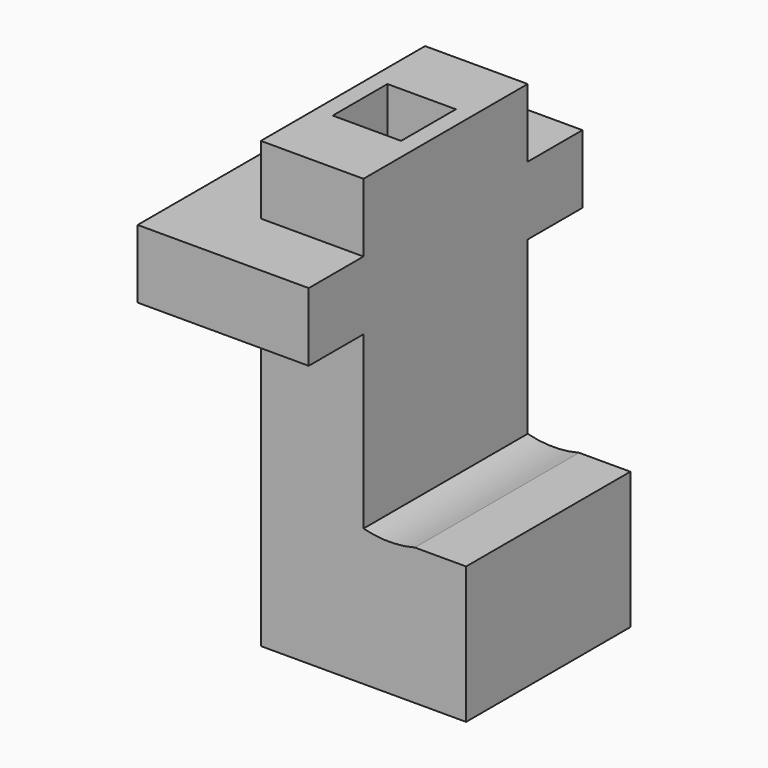
from build123d import *

# Parameters (mm, degrees)
F0_W      = 38.1
F0_H      = 76.2
F1_DEPTH  = 177.8
F2_W      = 76.2
F2_H      = 25.4
F3_DEPTH  = 25.4
F5_DEPTH  = 25.4
F7_DEPTH  = 25.4
F9_W      = 38.1
F9_H      = 76.2
F10_DEPTH = 25.4
F11_W     = 25.4
F11_H     = 25.4
F12_DEPTH = 228.6
F13_W     = 76.2
F13_H     = 50.8
F14_DEPTH = 38.1
F16_DEPTH = 228.6
F17_W     = 38.1
F17_H     = 76.2
F17_W_2   = 25.4
F17_H_2   = 25.4
F18_DEPTH = 38.1


with BuildPart() as f1:
    # F0 (on Top) → F1 (new body)
    with BuildSketch(Plane.XY):
        Rectangle(F0_W, F0_H)
    extrude(amount=F1_DEPTH)

    # F2 (on face) → F3 (join)
    with BuildSketch(Plane(origin=(-19.05, 0, 0), x_dir=(0, -1, 0), z_dir=(-1, 0, 0))):
        with Locations((0, 127)):
            Rectangle(F2_W, F2_H)
    extrude(amount=F3_DEPTH)

    # F4 (on face) → F5 (join)
    with BuildSketch(Plane.XZ.offset(38.1)):
        Polygon((-44.45, 139.7), (-44.45, 114.3), (-19.05, 114.3), (19.05, 114.3), (19.05, 139.7), (-19.05, 139.7), align=None)
    extrude(amount=F5_DEPTH)

    # F6 (on face) → F7 (join)
    with BuildSketch(Plane(origin=(0, 38.1, 0), x_dir=(-1, 0, 0), z_dir=(0, 1, 0))):
        Polygon((44.45, 114.3), (44.45, 139.7), (19.05, 139.7), (-19.05, 139.7), (-19.05, 114.3), (19.05, 114.3), align=None)
    extrude(amount=F7_DEPTH)

    # F9 (on face) → F10 (join)
    with BuildSketch(Plane.XY.offset(177.8)):
        Rectangle(F9_W, F9_H)
    extrude(amount=F10_DEPTH)

    # F11 (on face) → F12 (cut)
    with BuildSketch(Plane.XY.offset(203.2)):
        Rectangle(F11_W, F11_H)
    extrude(amount=-F12_DEPTH, mode=Mode.SUBTRACT)

    # F13 (on face) → F14 (join)
    with BuildSketch(Plane.YZ.offset(19.05)):
        with Locations((0, 25.4)):
            Rectangle(F13_W, F13_H)
    extrude(amount=F14_DEPTH)

    # F15 (on face) → F16 (cut)
    with BuildSketch(Plane.XZ.offset(38.1)):
        with BuildLine():
            Line((38.1, 50.8), (19.05, 50.8))
            ThreePointArc((19.05, 50.8), (28.575, 49.5901663726), (38.1, 50.8))
        make_face()
    extrude(amount=-F16_DEPTH, mode=Mode.SUBTRACT)

    # F17 (on face) → F18 (cut)
    with BuildSketch(Plane.XY.offset(203.2)):
        Rectangle(F17_W, F17_H)
        Rectangle(F17_W_2, F17_H_2, mode=Mode.SUBTRACT)
    extrude(amount=-F18_DEPTH, mode=Mode.SUBTRACT)


solid = f1.part
